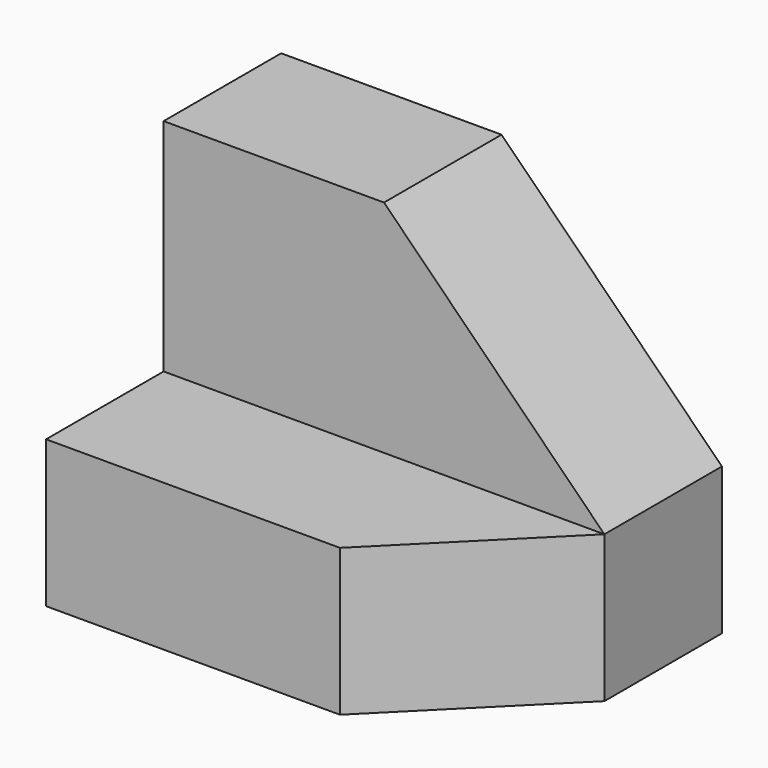
from build123d import *

# Parameters (mm, degrees)
F1_DEPTH = 38.1
F2_SIZE  = 12.7
F4_DEPTH = 25.4
F5_SIZE  = 19.05


with BuildPart() as f1:
    # F0 (on Right) → F1 (new body)
    with BuildSketch(Plane.YZ):
        Polygon((-25.4, 0), (0, 0), (0, 31.75), (-12.7, 31.75), (-12.7, 12.7), (-25.4, 12.7), align=None)
    extrude(amount=F1_DEPTH)

    # F2
    f2_edges = [f1.edges().sort_by_distance(p)[0] for p in [
        (38.1, -25.4, 6.35),
    ]]
    chamfer(f2_edges, length=F2_SIZE)

    # F3 (on face) → F4 (cut)
    with BuildSketch(Plane.XY.offset(31.75)):
        Polygon((38.1, -12.7), (19.05, -12.7), (55.73336, -31.905897), align=None)
    extrude(amount=F4_DEPTH, mode=Mode.SUBTRACT)

    # F5
    f5_edges = [f1.edges().sort_by_distance(p)[0] for p in [
        (38.1, -6.35, 31.75),
    ]]
    chamfer(f5_edges, length=F5_SIZE)


solid = f1.part
